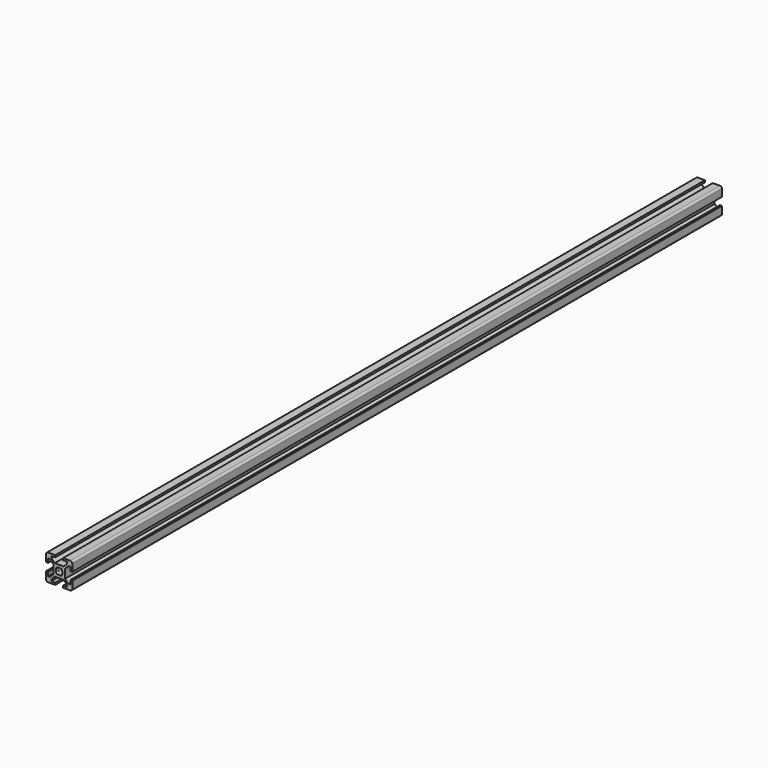
from build123d import *

# Parameters (mm, degrees)
F1_DEPTH = 620


with BuildPart() as f1:
    # F0 (on Front) → F1 (new body)
    with BuildSketch(Plane.XZ):
        with BuildLine():
            Line((3, -10), (8.5, -10))
            ThreePointArc((8.5, -10), (9.5606601718, -9.5606601718), (10, -8.5))
            Line((10, -8.5), (10, -3))
            Line((10, -3), (8.5, -3))
            Line((8.5, -3), (8.5, -6))
            Line((8.5, -6), (7.0606601718, -6))
            Line((7.0606601718, -6), (4.5, -3.4393398282))
            Line((4.5, -3.4393398282), (4.5, 3.4393398282))
            Line((4.5, 3.4393398282), (7.0606601718, 6))
            Line((7.0606601718, 6), (8.5, 6))
            Line((8.5, 6), (8.5, 3))
            Line((8.5, 3), (10, 3))
            Line((10, 3), (10, 8.5))
            ThreePointArc((10, 8.5), (9.5606601718, 9.5606601718), (8.5, 10))
            Line((8.5, 10), (3, 10))
            Line((3, 10), (3, 8.5))
            Line((3, 8.5), (6, 8.5))
            Line((6, 8.5), (6, 7.0606601718))
            Line((6, 7.0606601718), (3.4393398282, 4.5))
            Line((3.4393398282, 4.5), (-3.4393398282, 4.5))
            Line((-3.4393398282, 4.5), (-6, 7.0606601718))
            Line((-6, 7.0606601718), (-6, 8.5))
            Line((-6, 8.5), (-3, 8.5))
            Line((-3, 8.5), (-3, 10))
            Line((-3, 10), (-8.5, 10))
            ThreePointArc((-8.5, 10), (-9.5606601718, 9.5606601718), (-10, 8.5))
            Line((-10, 8.5), (-10, 3))
            Line((-10, 3), (-8.5, 3))
            Line((-8.5, 3), (-8.5, 6))
            Line((-8.5, 6), (-7.0606601718, 6))
            Line((-7.0606601718, 6), (-4.5, 3.4393398282))
            Line((-4.5, 3.4393398282), (-4.5, -3.4393398282))
            Line((-4.5, -3.4393398282), (-7.0606601718, -6))
            Line((-7.0606601718, -6), (-8.5, -6))
            Line((-8.5, -6), (-8.5, -3))
            Line((-8.5, -3), (-10, -3))
            Line((-10, -3), (-10, -8.5))
            ThreePointArc((-10, -8.5), (-9.5606601718, -9.5606601718), (-8.5, -10))
            Line((-8.5, -10), (-3, -10))
            Line((-3, -10), (-3, -8.5))
            Line((-3, -8.5), (-6, -8.5))
            Line((-6, -8.5), (-6, -7.0606601718))
            Line((-6, -7.0606601718), (-3.4393398282, -4.5))
            Line((-3.4393398282, -4.5), (3.4393398282, -4.5))
            Line((3.4393398282, -4.5), (6, -7.0606601718))
            Line((6, -7.0606601718), (6, -8.5))
            Line((6, -8.5), (3, -8.5))
            Line((3, -8.5), (3, -10))
        make_face()
        with BuildLine():
            ThreePointArc((-1.1560121095, 2.2166722813), (0, 2.5), (1.1560121095, 2.2166722813))
            Line((1.1560121095, 2.2166722813), (1.4393398282, 2.5))
            Line((1.4393398282, 2.5), (2.5, 1.4393398282))
            Line((2.5, 1.4393398282), (2.2166722813, 1.1560121095))
            ThreePointArc((2.2166722813, 1.1560121095), (2.5, 0), (2.2166722813, -1.1560121095))
            Line((2.2166722813, -1.1560121095), (2.5, -1.4393398282))
            Line((2.5, -1.4393398282), (1.4393398282, -2.5))
            Line((1.4393398282, -2.5), (1.1560121095, -2.2166722813))
            ThreePointArc((1.1560121095, -2.2166722813), (0, -2.5), (-1.1560121095, -2.2166722813))
            Line((-1.1560121095, -2.2166722813), (-1.4393398282, -2.5))
            Line((-1.4393398282, -2.5), (-2.5, -1.4393398282))
            Line((-2.5, -1.4393398282), (-2.2166722813, -1.1560121095))
            ThreePointArc((-2.2166722813, -1.1560121095), (-2.5, 0), (-2.2166722813, 1.1560121095))
            Line((-2.2166722813, 1.1560121095), (-2.5, 1.4393398282))
            Line((-2.5, 1.4393398282), (-1.4393398282, 2.5))
            Line((-1.4393398282, 2.5), (-1.1560121095, 2.2166722813))
        make_face(mode=Mode.SUBTRACT)
    extrude(amount=F1_DEPTH)


solid = f1.part
